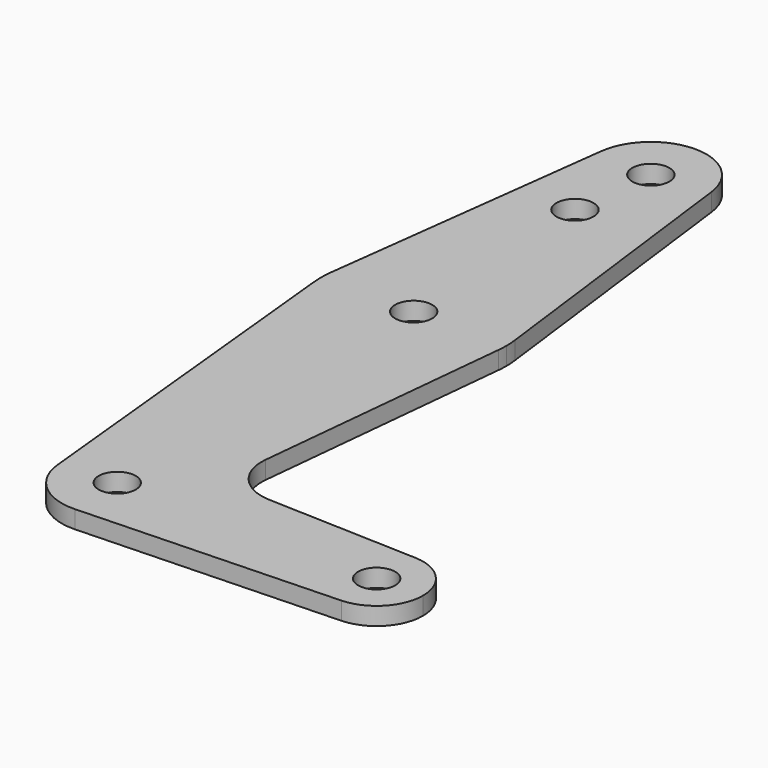
from build123d import *

# Parameters (mm, degrees)
F0_R     = 0.125
F1_DEPTH = 0.12


with BuildPart() as f1:
    # F0 (on Top) → F1 (new body)
    with BuildSketch(Plane.XY):
        with BuildLine():
            ThreePointArc((-0.372059, 0.046875), (-0.023484, -0.374264), (0.375, 0))
            ThreePointArc((0.375, 0), (0.374264, 0.023484), (0.372059, 0.046875))
            ThreePointArc((0.372059, 0.046875), (0, 0.375), (-0.372059, 0.046875))
        make_face()
        Circle(F0_R, mode=Mode.SUBTRACT)
        with BuildLine():
            ThreePointArc((0.372059, 0.046875), (0.374264, 0.023484), (0.375, 0))
            ThreePointArc((0.375, 0), (-0.023484, -0.374264), (-0.372059, 0.046875))
            Line((-0.372059, 0.046875), (-0.620098, -1.921875))
            ThreePointArc((-0.620098, -1.921875), (0, -1.375), (0.620098, -1.921875))
            Line((0.620098, -1.921875), (0.372059, 0.046875))
        make_face()
        with Locations((-0.0625, -0.562)):
            Circle(F0_R, mode=Mode.SUBTRACT)
        with BuildLine():
            ThreePointArc((0.625, -2), (0.623773, -1.960861), (0.620098, -1.921875))
            ThreePointArc((0.620098, -1.921875), (0, -1.375), (-0.620098, -1.921875))
            ThreePointArc((-0.620098, -1.921875), (-0.624951, -1.992138), (-0.621867, -2.0625))
            ThreePointArc((-0.621867, -2.0625), (0, -2.625), (0.621867, -2.0625))
            ThreePointArc((0.621867, -2.0625), (0.624216, -2.031289), (0.625, -2))
        make_face()
        with Locations((0, -2)):
            Circle(F0_R, mode=Mode.SUBTRACT)
        with BuildLine():
            ThreePointArc((0.621867, -2.0625), (0, -2.625), (-0.621867, -2.0625))
            Line((-0.621867, -2.0625), (-0.37312, -4.5375))
            ThreePointArc((-0.37312, -4.5375), (-0.018774, -4.12547), (0.375, -4.5))
            ThreePointArc((0.375, -4.5), (0.269859, -4.760387), (0.013393, -4.874761))
            Line((0.013393, -4.874761), (1.761161, -4.812301))
            ThreePointArc((1.761161, -4.812301), (1.4375, -4.5), (1.761161, -4.187699))
            Line((1.761161, -4.187699), (0.746756, -4.151447))
            ThreePointArc((0.746756, -4.151447), (0.522094, -4.044435), (0.446503, -3.807347))
            Line((0.446503, -3.807347), (0.621867, -2.0625))
        make_face()
        with BuildLine():
            ThreePointArc((0.375, -4.5), (-0.018774, -4.12547), (-0.37312, -4.5375))
            ThreePointArc((-0.37312, -4.5375), (-0.246551, -4.782556), (0.013393, -4.874761))
            ThreePointArc((0.013393, -4.874761), (0.269859, -4.760387), (0.375, -4.5))
        make_face()
        with Locations((0, -4.5)):
            Circle(F0_R, mode=Mode.SUBTRACT)
        with BuildLine():
            ThreePointArc((1.761161, -4.187699), (1.4375, -4.5), (1.761161, -4.812301))
            ThreePointArc((1.761161, -4.812301), (1.974882, -4.716989), (2.0625, -4.5))
            ThreePointArc((2.0625, -4.5), (1.974882, -4.283011), (1.761161, -4.187699))
        make_face()
        with Locations((1.75, -4.5)):
            Circle(F0_R, mode=Mode.SUBTRACT)
    extrude(amount=F1_DEPTH)


solid = f1.part
